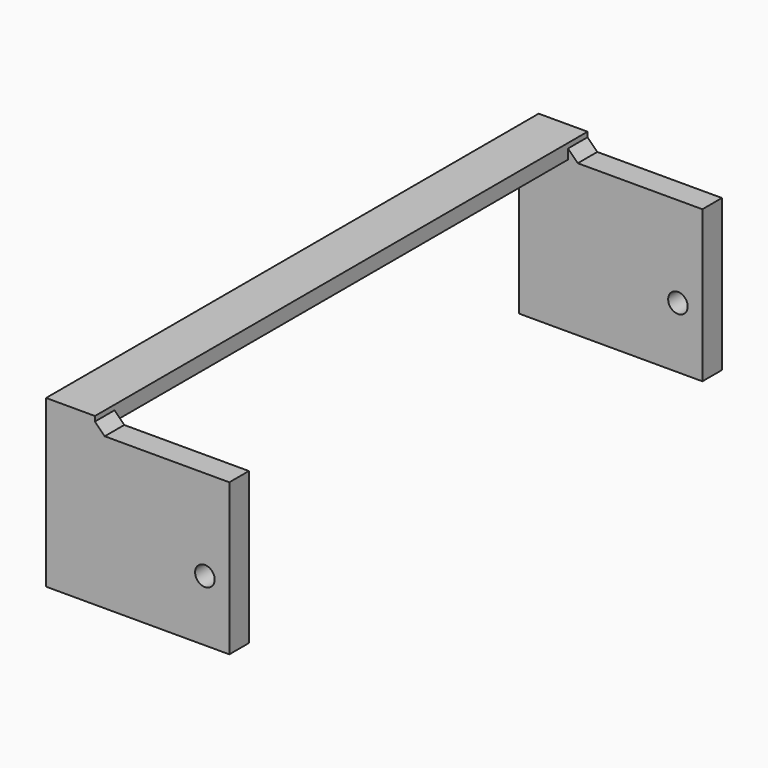
from build123d import *

# Parameters (mm, degrees)
CYLINDER015_R     = 2
CYLINDER015_DEPTH = 126
BOX020_W          = 10
BOX020_H          = 126
BOX020_DEPTH      = 3
BOX019_W          = 37.5
BOX019_H          = 5
BOX019_DEPTH      = 31
BOX018_W          = 37.5
BOX018_H          = 5
BOX018_DEPTH      = 31
CHAMFER007_SIZE   = 2


with BuildPart() as cylinder015:
    # Cylinder015 → Cylinder015 (new body)
    with BuildSketch(Plane(origin=(32.5, 0, 17.5), x_dir=(1, 0, 0), z_dir=(0, 1, 0))):
        Circle(CYLINDER015_R)
    extrude(amount=CYLINDER015_DEPTH)


with BuildPart() as cube020:
    # Box020 → Box020 (new body)
    with BuildSketch(Plane.XY.offset(36)):
        with Locations((5, 63)):
            Rectangle(BOX020_W, BOX020_H)
    extrude(amount=BOX020_DEPTH)


with BuildPart() as cube019:
    # Box019 → Box019 (new body)
    with BuildSketch(Plane(origin=(0, 121, 5), x_dir=(1, 0, 0), z_dir=(0, 0, 1))):
        with Locations((18.75, 2.5)):
            Rectangle(BOX019_W, BOX019_H)
    extrude(amount=BOX019_DEPTH)


with BuildPart() as cut008004003003:
    # Box018 → Box018 (new body)
    with BuildSketch(Plane.XY.offset(5)):
        with Locations((18.75, 2.5)):
            Rectangle(BOX018_W, BOX018_H)
    extrude(amount=BOX018_DEPTH)

    # Fusion003009: union Cube020, Cube019
    add(cube020.part)
    add(cube019.part)

    # Chamfer007
    chamfer007_edges = [cut008004003003.edges().sort_by_distance(p)[0] for p in [
        (10, 2.5, 36),
        (10, 123.5, 36),
    ]]
    chamfer(chamfer007_edges, length=CHAMFER007_SIZE)

    # Cut008004003003: cut Cylinder015
    add(cylinder015.part, mode=Mode.SUBTRACT)


solid = cut008004003003.part
